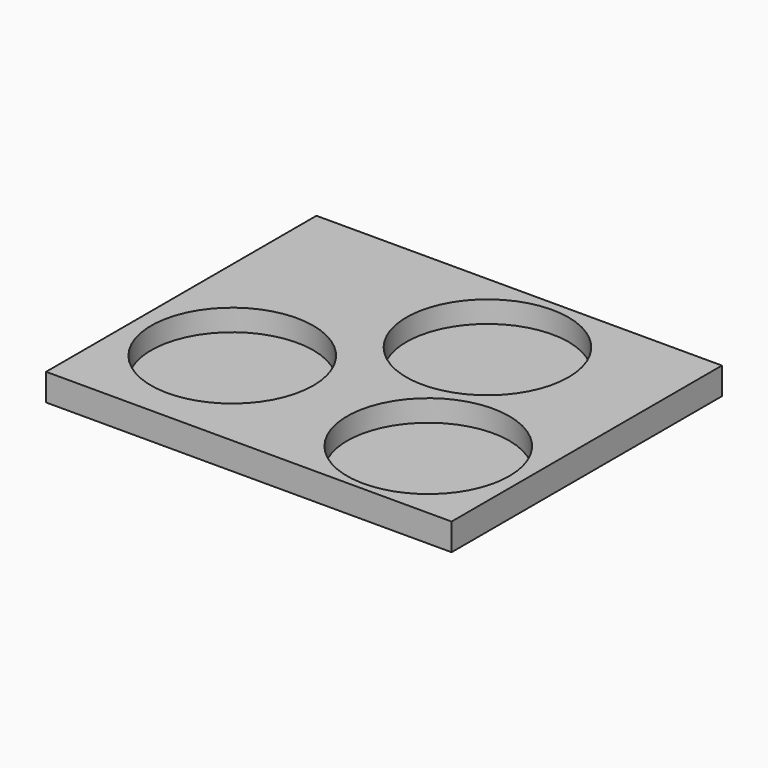
from build123d import *

# Parameters (mm, degrees)
F0_W     = 30
F0_H     = 25
F1_DEPTH = 2
F2_R     = 6
F3_DEPTH = 1.6


with BuildPart() as f1:
    # F0 (on Top) → F1 (new body)
    with BuildSketch(Plane.XY):
        Rectangle(F0_W, F0_H)
    extrude(amount=-F1_DEPTH)

    # F2 (on Top) → F3 (cut)
    with BuildSketch(Plane.XY):
        with Locations((-7.865239, -4.20318)):
            Circle(F2_R)
        with Locations((2.998843, 5.818724)):
            Circle(F2_R)
        with Locations((8.051903, -5.971751)):
            Circle(F2_R)
    extrude(amount=-F3_DEPTH, mode=Mode.SUBTRACT)


solid = f1.part
